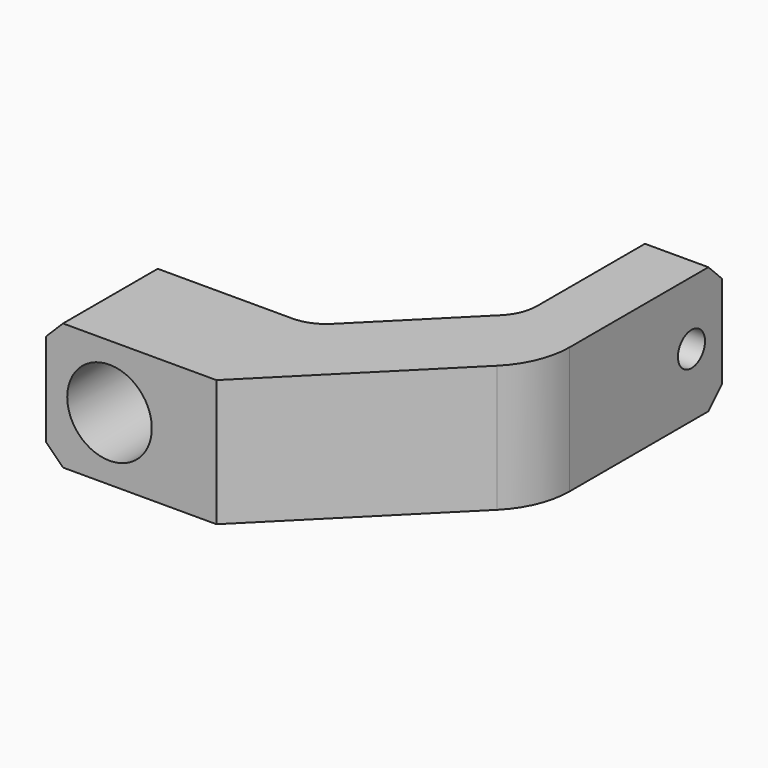
from build123d import *

# Parameters (mm, degrees)
PAD_DEPTH       = 15
CHAMFER_SIZE    = 2
CHAMFER001_SIZE = 2
FILLET_R        = 5
FILLET001_R     = 10
SKETCH001_R     = 5
POCKET_DEPTH    = 14
SKETCH002_R     = 2
POCKET001_DEPTH = 7.5


with BuildPart() as part:
    # Sketch → Pad (new body)
    with BuildSketch(Plane.XY):
        Polygon((-7.5, 0), (12.64, 0), (34, 21.36), (34, 48), (26.5, 48), (26.5, 28.002136), (12.497864, 14), (-7.5, 14), align=None)
    extrude(amount=PAD_DEPTH)

    # Chamfer
    chamfer_edges = [part.edges().sort_by_distance(p)[0] for p in [
        (30.25, 48, 15),
        (30.25, 48, 0),
    ]]
    chamfer(chamfer_edges, length=CHAMFER_SIZE)

    # Chamfer001
    chamfer001_edges = [part.edges().sort_by_distance(p)[0] for p in [
        (-7.5, 7, 15),
        (-7.5, 7, 0),
    ]]
    chamfer(chamfer001_edges, length=CHAMFER001_SIZE)

    # Fillet
    fillet_edges = [part.edges().sort_by_distance(p)[0] for p in [
        (26.5, 28.002136, 7.5),
        (12.497864, 14, 7.5),
    ]]
    fillet(fillet_edges, radius=FILLET_R)

    # Fillet001
    fillet001_edges = [part.edges().sort_by_distance(p)[0] for p in [
        (34, 21.36, 7.5),
    ]]
    fillet(fillet001_edges, radius=FILLET001_R)

    # Sketch001 → Pocket (cut)
    with BuildSketch(Plane(origin=(0, 14, 0), x_dir=(-1, 0, 0), z_dir=(0, 1, 0))):
        with Locations((0, 7.5)):
            Circle(SKETCH001_R)
    extrude(amount=-POCKET_DEPTH, mode=Mode.SUBTRACT)

    # Sketch002 → Pocket001 (cut)
    with BuildSketch(Plane(origin=(26.5, 0, 0), x_dir=(0, -1, 0), z_dir=(-1, 0, 0))):
        with Locations((-43.5, 7.5)):
            Circle(SKETCH002_R)
    extrude(amount=-POCKET001_DEPTH, mode=Mode.SUBTRACT)


solid = part.part
